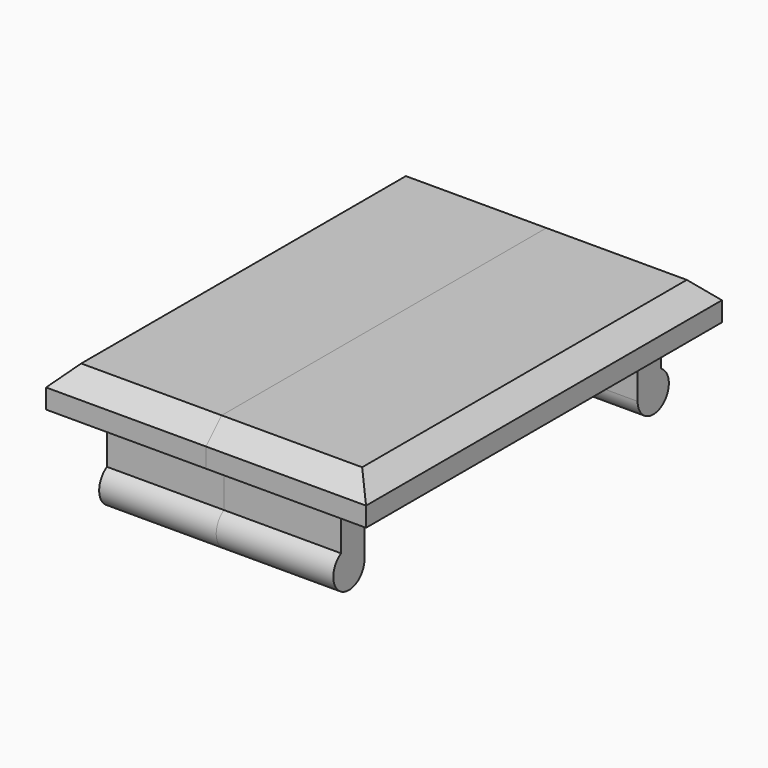
from build123d import *

# Parameters (mm, degrees)
SKETCH_W     = 6
SKETCH_H     = 1.5
PAD_DEPTH    = 3.2
SKETCH001_W  = 8.2
SKETCH001_H  = 11.4
PAD001_DEPTH = 2
CHAMFER_SIZE = 1
SKETCH002_R  = 1
PAD002_DEPTH = 6


with BuildPart() as refine_fix001:
    # Sketch → Pad (new body)
    with BuildSketch(Plane.XY):
        with Locations((3, 9.5)):
            Rectangle(SKETCH_W, SKETCH_H)
    extrude(amount=-PAD_DEPTH)

    # Sketch001 → Pad001 (new body)
    with BuildSketch(Plane.XY):
        with Locations((4.1, 5.7)):
            Rectangle(SKETCH001_W, SKETCH001_H)
    extrude(amount=PAD001_DEPTH)

    # Chamfer
    chamfer_edges = [refine_fix001.edges().sort_by_distance(p)[0] for p in [
        (4.1, 11.4, 2),
        (8.2, 5.7, 2),
    ]]
    chamfer(chamfer_edges, length=CHAMFER_SIZE)

    # Sketch002 → Pad002 (new body)
    with BuildSketch(Plane(origin=(0, 0, 0), x_dir=(0, -1, 0), z_dir=(-1, 0, 0))):
        with Locations((-9.75, -3.2)):
            Circle(SKETCH002_R)
    extrude(amount=-PAD002_DEPTH)


with BuildPart() as part_mirroring:
    # Part__Mirroring: instance of refine_Fix001
    add(refine_fix001.part.mirror(Plane(origin=(0, 0, 0), x_dir=(1, 0, 0), z_dir=(0, 1, 0))))


with BuildPart() as fusion:
    # Fusion base: copy of refine_Fix001
    add(refine_fix001.part)

    # Fusion: union Part__Mirroring
    add(part_mirroring.part)


with BuildPart() as obj1:
    # Part__Mirroring001: instance of Fusion
    add(fusion.part.mirror(Plane(origin=(0, 0, 0), x_dir=(0, -1, 0), z_dir=(1, 0, 0))))

    # Fusion001: union Fusion
    add(fusion.part)


solid = obj1.part
